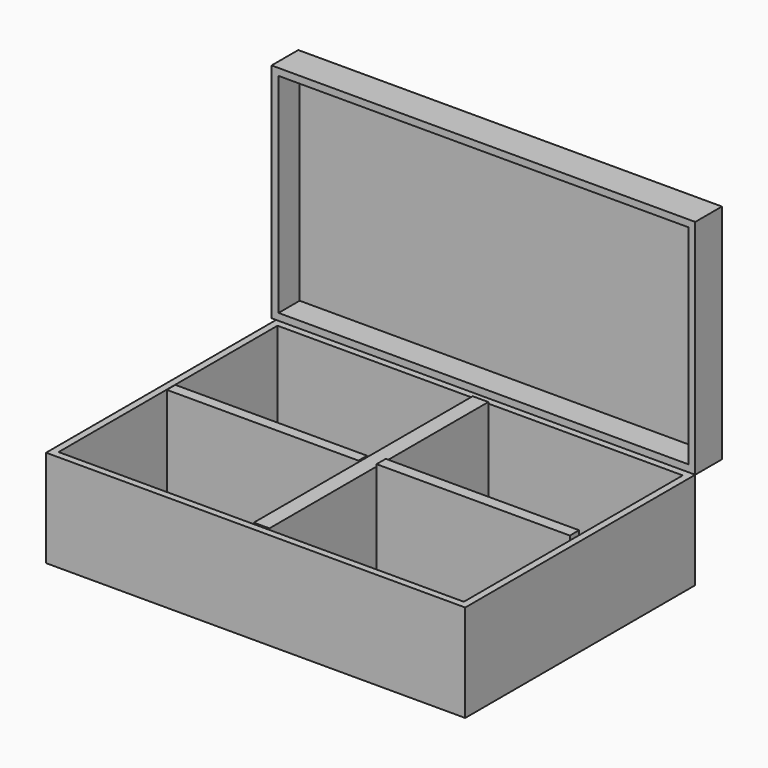
from build123d import *

# Parameters (mm, degrees)
F0_W      = 150.853216
F0_H      = 103.484783
F1_DEPTH  = 35
F2_T      = -2.5
F3_W      = 5.625002
F3_H      = 98.484783
F6_DEPTH  = 33
F5_W      = 69.572369
F5_H      = 4.144738
F7_DEPTH  = 34
F4_W      = 68.985967
F4_H      = 3.848685
F8_DEPTH  = 33
F10_DEPTH = 12
F11_T     = -2.5


with BuildPart() as f1:
    # F0 (on Top) → F1 (new body)
    with BuildSketch(Plane.XY):
        with Locations((-0.060469, 21.255313)):
            Rectangle(F0_W, F0_H)
    extrude(amount=F1_DEPTH)

    # F2
    f2_openings = [f1.faces().sort_by_distance(p)[0] for p in [
        (-0.060469, 21.255312, 35),
    ]]
    offset(amount=F2_T, openings=f2_openings)

    # F3 (on face) → F6 (join)
    with BuildSketch(Plane.XY.offset(2.5)):
        with Locations((0.087558, 21.255313)):
            Rectangle(F3_W, F3_H)
    extrude(amount=F6_DEPTH)

    # F5 (on face) → F7 (join)
    with BuildSketch(Plane.XY.offset(2.5)):
        with Locations((37.982295, 21.907895)):
            Rectangle(F5_W, F5_H)
    extrude(amount=F7_DEPTH)

    # F4 (on face) → F8 (join)
    with BuildSketch(Plane.XY.offset(2.5)):
        with Locations((-37.804328, 21.759868)):
            Rectangle(F4_W, F4_H)
    extrude(amount=F8_DEPTH)


with BuildPart() as f10:
    # F9 (on face) → F10 (new body)
    with BuildSketch(Plane(origin=(0, 72.997704, 0), x_dir=(-1, 0, 0), z_dir=(0, 1, 0))):
        Polygon((-75.366139, 115.108758), (-75.366139, 35), (75.487077, 35), (77.114932, 35), (77.114932, 115.108758), align=None)
    extrude(amount=F10_DEPTH)

    # F11
    f11_openings = [f10.faces().sort_by_distance(p)[0] for p in [
        (-0.874396, 72.997704, 75.054379),
    ]]
    offset(amount=F11_T, openings=f11_openings)


solid = Compound([f1.part, f10.part])
